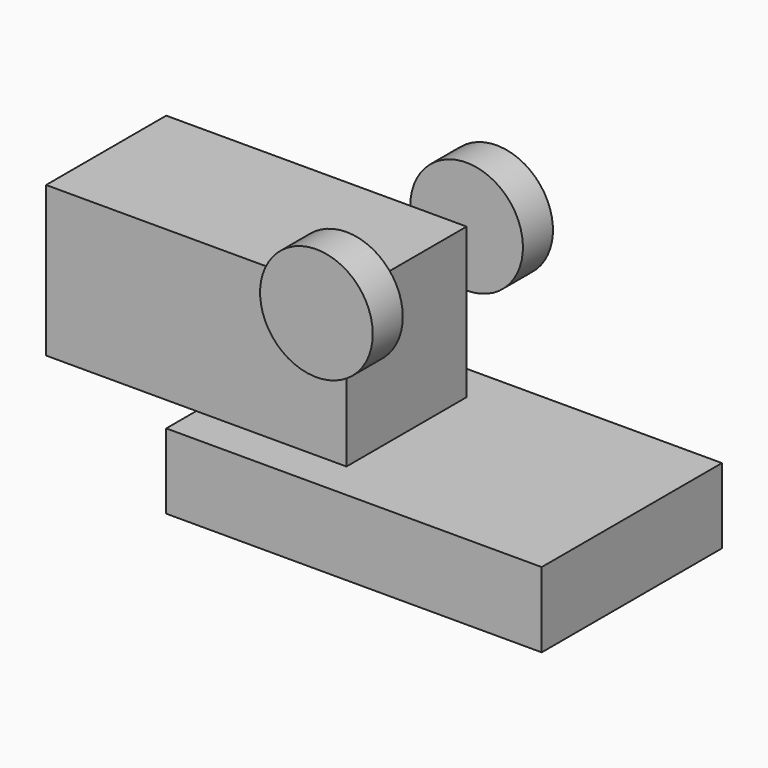
from build123d import *

# Parameters (mm, degrees)
F0_W      = 50
F0_H      = 30
F1_DEPTH  = 10
F2_W      = 5
F2_H      = 5
F3_DEPTH  = 5
F5_DEPTH  = 20
F6_W      = 20
F6_H      = 20
F7_DEPTH  = 20
F8_R      = 7.5
F9_DEPTH  = 5
F10_R     = 7.5
F11_DEPTH = 5


with BuildPart() as f1:
    # F0 (on Top) → F1 (new body)
    with BuildSketch(Plane.XY):
        Rectangle(F0_W, F0_H)
    extrude(amount=F1_DEPTH)

    # F2 (on face) → F3 (join)
    with BuildSketch(Plane(origin=(0, 0, 0), x_dir=(1, 0, 0), z_dir=(0, 0, -1))):
        Polygon((-25, 2.5), (-25, 0), (-25, -2.5), (-20, -2.5), (-20, 2.5), align=None)
        with Locations((-7.5, 0)):
            Rectangle(F2_W, F2_H)
    extrude(amount=F3_DEPTH)

    # F4 (on face) → F5 (join)
    with BuildSketch(Plane.XY.offset(10)):
        Polygon((-5, 10), (-25, 10), (-25, 0), (-25, -10), (-5, -10), align=None)
    extrude(amount=F5_DEPTH)

    # F6 (on face) → F7 (join)
    with BuildSketch(Plane(origin=(-25, 0, 0), x_dir=(0, -1, 0), z_dir=(-1, 0, 0))):
        with Locations((0, 20)):
            Rectangle(F6_W, F6_H)
    extrude(amount=F7_DEPTH)

    # F8 (on face) → F9 (join)
    with BuildSketch(Plane.XZ.offset(10)):
        with Locations((-5, 30)):
            Circle(F8_R)
    extrude(amount=F9_DEPTH)

    # F10 (on face) → F11 (join)
    with BuildSketch(Plane(origin=(0, 10, 0), x_dir=(-1, 0, 0), z_dir=(0, 1, 0))):
        with Locations((5, 30)):
            Circle(F10_R)
    extrude(amount=F11_DEPTH)


solid = f1.part
